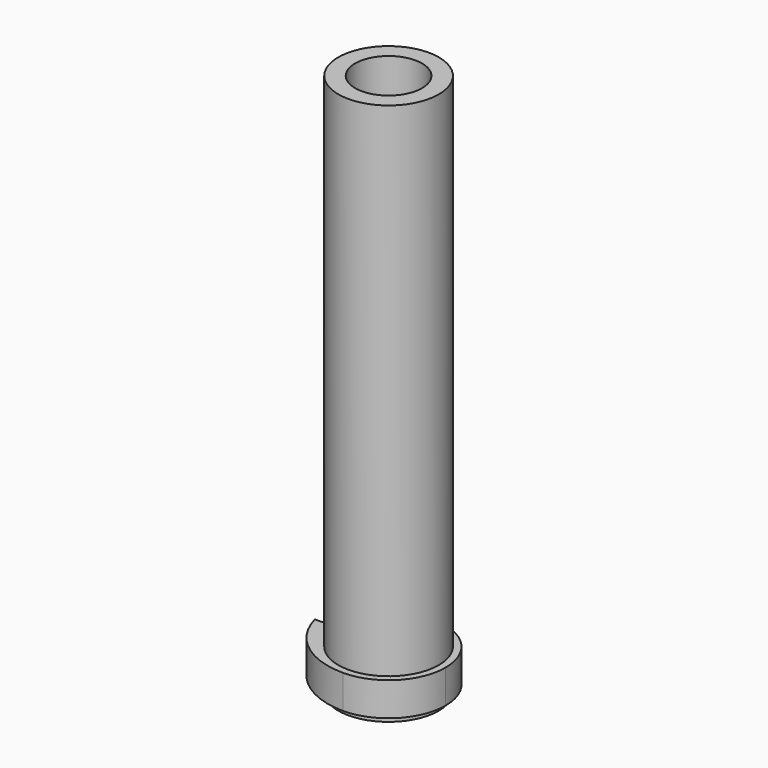
from build123d import *

# Parameters (mm, degrees)
F0_R      = 19.05
F1_DEPTH  = 205.74
F9_R      = 19.05
F10_DEPTH = 12.7
F11_R     = 12.7
F12_DEPTH = 254


with BuildPart() as f1:
    # F0 (on Top) → F1 (new body)
    with BuildSketch(Plane.XY):
        Circle(F0_R)
    extrude(amount=F1_DEPTH)

    # F9 (on offset) → F10 (join)
    with BuildSketch(Plane(origin=(0, 0, 2.54), x_dir=(1, 0, 0), z_dir=(0, 0, -1))):
        with BuildLine():
            ThreePointArc((-21.59, 0), (0, -21.59), (21.59, 0))
            ThreePointArc((21.59, 0), (15.266435, 15.266435), (0, 21.59))
            ThreePointArc((0, 21.59), (-15.266435, 15.266435), (-21.59, 0))
        make_face()
        Circle(F9_R, mode=Mode.SUBTRACT)
        with BuildLine():
            ThreePointArc((-21.59, 0), (-15.266435, 15.266435), (0, 21.59))
            ThreePointArc((0, 21.59), (-17.654827, 15.5636), (-27.94, 0))
            Line((-27.94, 0), (-21.59, 0))
        make_face()
    extrude(amount=-F10_DEPTH)

    # F11 (on face) → F12 (cut)
    with BuildSketch(Plane(origin=(0, 0, 0), x_dir=(1, 0, 0), z_dir=(0, 0, -1))):
        Circle(F11_R)
    extrude(amount=-F12_DEPTH, mode=Mode.SUBTRACT)


solid = f1.part
